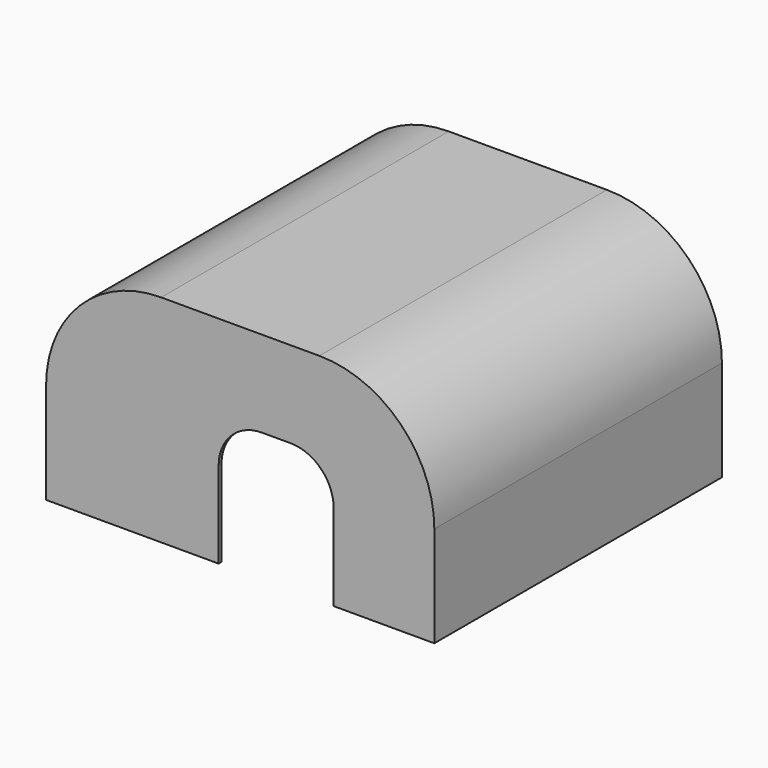
from build123d import *

# Parameters (mm, degrees)
F0_W     = 270
F0_H     = 150
F1_DEPTH = 250
F2_R     = 80
F3_T     = -2.5
F5_DEPTH = 2.5
F7_DEPTH = 25


with BuildPart() as f1:
    # F0 (on Front) → F1 (new body)
    with BuildSketch(Plane.XZ):
        with Locations((0, 75)):
            Rectangle(F0_W, F0_H)
    extrude(amount=F1_DEPTH)

    # F2
    f2_edges = [f1.edges().sort_by_distance(p)[0] for p in [
        (-135, -125, 150),
        (135, -125, 150),
    ]]
    fillet(f2_edges, radius=F2_R)

    # F3
    f3_openings = [f1.faces().sort_by_distance(p)[0] for p in [
        (0, -125, 0),
    ]]
    offset(amount=F3_T, openings=f3_openings)

    # F4 (on face) → F5 (cut, through all)
    with BuildSketch(Plane.XZ.offset(250)):
        with BuildLine():
            Line((-15, 60), (-15, 0))
            Line((-15, 0), (65, 0))
            Line((65, 0), (65, 60))
            ThreePointArc((65, 60), (56.213203, 81.213203), (35, 90))
            Line((35, 90), (15, 90))
            ThreePointArc((15, 90), (-6.213203, 81.213203), (-15, 60))
        make_face()
    extrude(amount=-F5_DEPTH, mode=Mode.SUBTRACT)

    # F6 (on face) → F7 (cut)
    with BuildSketch(Plane(origin=(0, 0, 0), x_dir=(-1, 0, 0), z_dir=(0, 1, 0))):
        with BuildLine():
            Line((25, 60), (25, 0))
            Line((25, 0), (105, 0))
            Line((105, 0), (105, 60))
            ThreePointArc((105, 60), (96.213203, 81.213203), (75, 90))
            Line((75, 90), (55, 90))
            ThreePointArc((55, 90), (33.786797, 81.213203), (25, 60))
        make_face()
    extrude(amount=-F7_DEPTH, mode=Mode.SUBTRACT)


solid = f1.part
